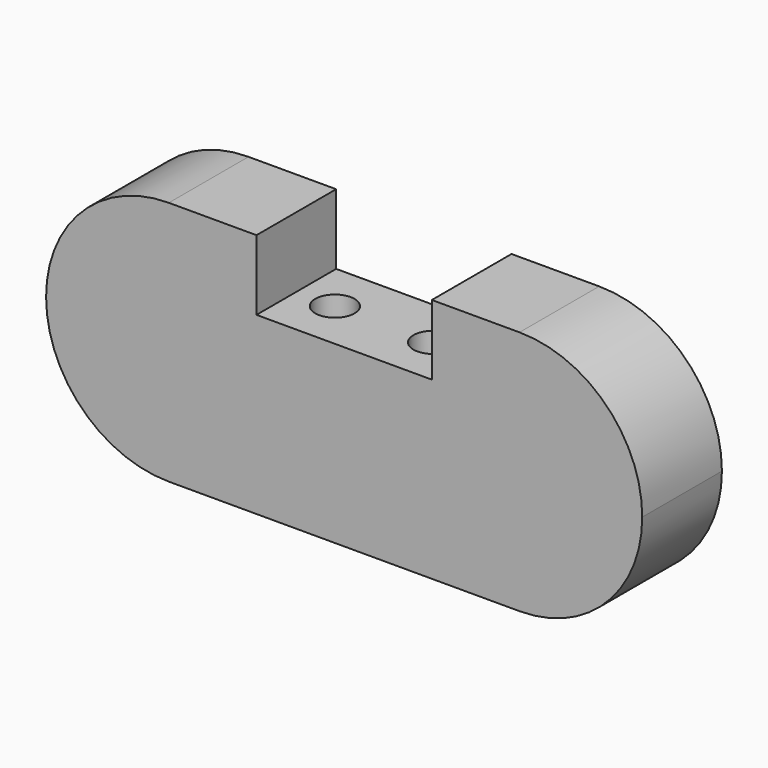
from build123d import *

# Parameters (mm, degrees)
F1_DEPTH = 4.5085
F2_R     = 3.175
F3_DEPTH = 4.7498
F4_R     = 1.778
F5_DEPTH = 25.4


with BuildPart() as f1:
    # F0 (on Front) → F1 (new body, symmetric)
    with BuildSketch(Plane.XZ):
        with BuildLine():
            Line((-7.9375, 11.1125), (-15.875, 11.1125))
            ThreePointArc((-15.875, 11.1125), (-23.732724, 7.857724), (-26.9875, 0))
            ThreePointArc((-26.9875, 0), (-23.732724, -7.857724), (-15.875, -11.1125))
            Line((-15.875, -11.1125), (0, -11.1125))
            Line((0, -11.1125), (15.875, -11.1125))
            ThreePointArc((15.875, -11.1125), (23.732724, -7.857724), (26.9875, 0))
            ThreePointArc((26.9875, 0), (23.732724, 7.857724), (15.875, 11.1125))
            Line((15.875, 11.1125), (7.9375, 11.1125))
            Line((7.9375, 11.1125), (7.9375, 4.7625))
            Line((7.9375, 4.7625), (0, 4.7625))
            Line((0, 4.7625), (-7.9375, 4.7625))
            Line((-7.9375, 4.7625), (-7.9375, 11.1125))
        make_face()
    extrude(amount=F1_DEPTH, both=True)

    # F2 (on face) → F3 (cut)
    with BuildSketch(Plane(origin=(0, 0, -11.1125), x_dir=(1, 0, 0), z_dir=(0, 0, -1))):
        with Locations((-4.445, 0)):
            Circle(F2_R)
        with Locations((4.445, 0)):
            Circle(F2_R)
    extrude(amount=-F3_DEPTH, mode=Mode.SUBTRACT)

    # F4 (on face) → F5 (cut)
    with BuildSketch(Plane(origin=(0, 0, -11.1125), x_dir=(1, 0, 0), z_dir=(0, 0, -1))):
        with Locations((-4.445, 0)):
            Circle(F4_R)
        with Locations((4.445, 0)):
            Circle(F4_R)
    extrude(amount=-F5_DEPTH, mode=Mode.SUBTRACT)


solid = f1.part
